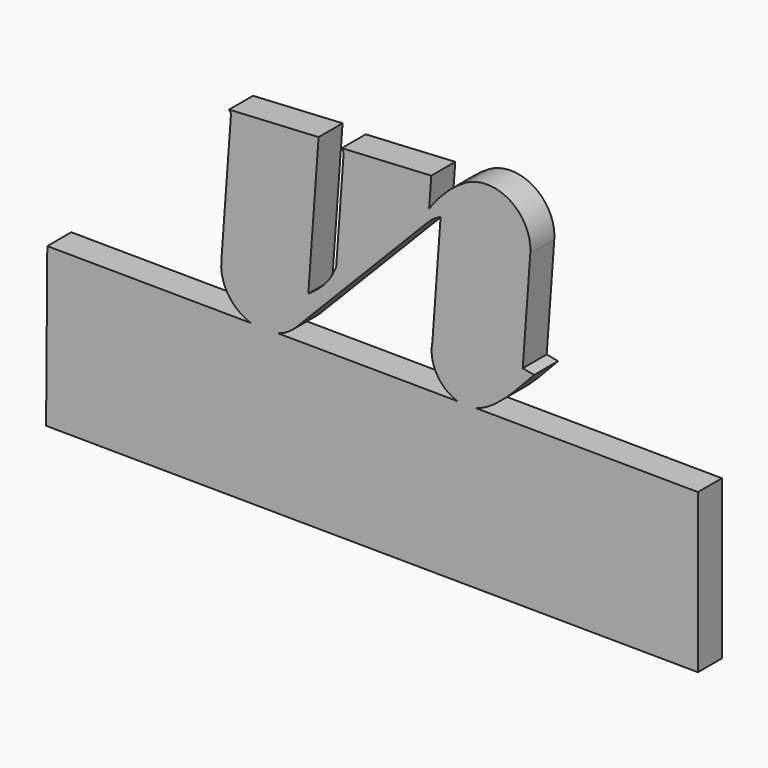
from build123d import *

# Parameters (mm, degrees)
F1_DEPTH = 3.175


with BuildPart() as f1:
    # F0 (on Front) → F1 (new body, symmetric)
    with BuildSketch(Plane.XZ):
        with BuildLine():
            Line((-2.1811367593, -29.9206056496), (0, 0))
            Line((0, 0), (-18.9716252415, -1.0379959996))
            Line((-18.9716252415, -1.0379959996), (-18.560718745, -1.6936484026))
            Line((-18.560718745, -1.6936484026), (-20.6183928033, -29.9206056496))
            ThreePointArc((-20.6183928033, -29.9206056496), (-19.097069056, -35.7098670599), (-14.3476168276, -39.3530356194))
            Line((-14.3476168276, -39.3530356194), (-8.5862497906, -39.3970988002))
            ThreePointArc((-8.5862497906, -39.3970988002), (-6.5372712865, -38.4533368755), (-4.7779318284, -37.0413439039))
            Line((-4.7779318284, -37.0413439039), (23.1049112899, -8.4100140946))
            add(Edge.make_bspline(
                [(23.1049112899, -8.4100140946), (23.9660870284, -7.4624572881), (25.0680023001, -6.8722019142), (25.8537740575, -6.4793160355)],
                knots=[0, 0, 0, 0, 3.3591429725, 3.3591429725, 3.3591429725, 3.3591429725], degree=3))
            Line((25.8537740575, -6.4793160355), (24.10886465, -30.4158005552))
            add(Edge.make_bspline(
                [(24.10886465, -30.4158005552), (23.221265172, -34.8448709212), (26.0528829358, -38.6121878233), (29.4550270257, -39.6880401081)],
                knots=[0, 0, 0, 0, 0.386502628, 0.386502628, 0.386502628, 0.386502628], degree=3))
            Line((29.4550270257, -39.6880401081), (33.3250212912, -39.7176379893))
            add(Edge.make_bspline(
                [(33.3250212912, -39.7176379893), (37.6104290116, -38.509658395), (41.9014469905, -33.599334096), (45.6744432449, -29.5126028359)],
                knots=[0.529238247, 0.529238247, 0.529238247, 0.529238247, 1, 1, 1, 1], degree=3))
            Line((45.6744432449, -29.5126028359), (43.2580737253, -29.0605745563))
            Line((43.2580737253, -29.0605745563), (44.8575740155, -7.1187970799))
            ThreePointArc((44.8575740155, -7.1187970799), (40.634142354, 1.3214875027), (31.2014035881, 1.6364767216))
            add(Edge.make_bspline(
                [(23.4220137692, -5.7100140946), (25.4793688655, -2.7494623791), (28.2295402139, 0), (31.2014035881, 1.6364767216)],
                knots=[0, 0, 0, 0, 10.6999922087, 10.6999922087, 10.6999922087, 10.6999922087], degree=3))
            Line((23.4220137692, -5.7100140946), (23.8800524886, 0.5733130918))
            Line((23.8800524886, 0.5733130918), (4.9084272471, -0.4646829078))
            Line((4.9084272471, -0.4646829078), (5.3193337437, -1.1203353108))
            Line((5.3193337437, -1.1203353108), (3.7198334535, -23.0621127871))
            add(Edge.make_bspline(
                [(3.7198334535, -23.0621127871), (2.6201102883, -25.5734715611), (1.7430323642, -27.2203981876), (-2.1811367593, -29.9206056496)],
                knots=[0, 0, 0, 0, 9.0476722861, 9.0476722861, 9.0476722861, 9.0476722861], degree=3))
        make_face()
        with BuildLine():
            Line((-8.5862497906, -39.3970988002), (-14.3476168276, -39.3530356194))
            ThreePointArc((-14.3476168276, -39.3530356194), (-11.4704542579, -39.8354397482), (-8.5862497906, -39.3970988002))
        make_face()
        with BuildLine():
            Line((33.3250212912, -39.7176379893), (29.4550270257, -39.6880401081))
            add(Edge.make_bspline(
                [(29.4550270257, -39.6880401081), (30.0021087518, -39.8610425176), (31.2924032253, -40.0985217153), (32.5914536336, -39.9244175584), (33.3250212912, -39.7176379893)],
                knots=[0.386502628, 0.386502628, 0.386502628, 0.386502628, 0.4486541769, 0.529238247, 0.529238247, 0.529238247, 0.529238247], degree=3))
        make_face()
        with BuildLine():
            ThreePointArc((-8.5862497906, -39.3970988002), (-11.4704542579, -39.8354397482), (-14.3476168276, -39.3530356194))
            Line((-14.3476168276, -39.3530356194), (-57.49016349, -39.0230795821))
            Line((-57.49016349, -39.0230795821), (-57.747233247, -72.6355695398))
            Line((-57.747233247, -72.6355695398), (80.3876109421, -73.6920307208))
            Line((80.3876109421, -73.6920307208), (80.3876109421, -40.0775746826))
            Line((80.3876109421, -40.0775746826), (33.3250212912, -39.7176379893))
            add(Edge.make_bspline(
                [(29.4550270257, -39.6880401081), (30.0021087518, -39.8610425176), (31.2924032253, -40.0985217153), (32.5914536336, -39.9244175584), (33.3250212912, -39.7176379893)],
                knots=[0.386502628, 0.386502628, 0.386502628, 0.386502628, 0.4486541769, 0.529238247, 0.529238247, 0.529238247, 0.529238247], degree=3))
            Line((29.4550270257, -39.6880401081), (-8.5862497906, -39.3970988002))
        make_face()
    extrude(amount=F1_DEPTH, both=True)


solid = f1.part
